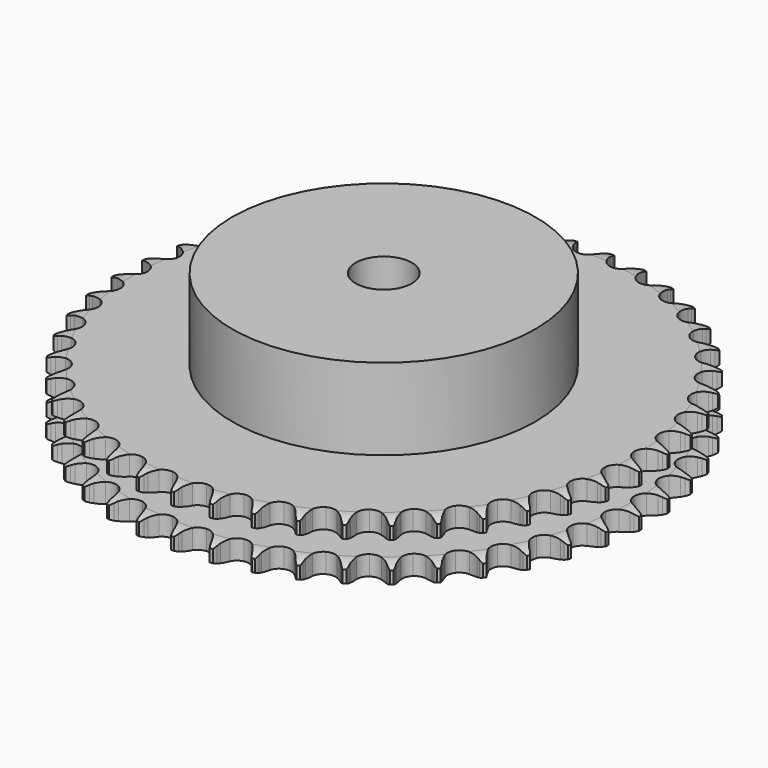
from build123d import *

# Parameters (mm, degrees)
PAD_DEPTH         = 21
SKETCH001_R       = 54
PAD001_DEPTH      = 50
SKETCH002_R       = 10
POCKET_DEPTH      = 0.001
POCKET_DEPTH_BACK = 50.001


with BuildPart() as part:
    # Sprocket → Pad (new body)
    with BuildSketch(Plane.XY):
        with BuildLine():
            ThreePointArc((-6.615982, 94.612948), (-5.918662, 93.611701), (-5.409379, 92.502926))
            Line((-5.409379, 92.502926), (-4.994949, 91.337641))
            ThreePointArc((-4.994949, 91.337641), (-4.340108, 89.850575), (-3.47559, 88.474788))
            ThreePointArc((-3.47559, 88.474788), (-1.947495, 87.18116), (0, 86.716603))
            ThreePointArc((0, 86.716603), (1.947495, 87.18116), (3.47559, 88.474788))
            ThreePointArc((3.47559, 88.474788), (4.340108, 89.850575), (4.994949, 91.337641))
            Line((4.994949, 91.337641), (5.409379, 92.502926))
            ThreePointArc((5.409379, 92.502926), (5.918662, 93.611701), (6.615982, 94.612948))
            ThreePointArc((6.615982, 94.612948), (7.167169, 93.524397), (7.517184, 92.355534))
            Line((7.517184, 92.355534), (7.765405, 91.143912))
            ThreePointArc((7.765405, 91.143912), (8.206913, 89.580182), (8.871545, 88.097466))
            ThreePointArc((8.871545, 88.097466), (10.20473, 86.603758), (12.068618, 85.872683))
            ThreePointArc((12.068618, 85.872683), (14.061814, 86.06168), (15.755077, 87.130049))
            Line((15.755077, 87.130049), (17.658081, 89.753587))
            ThreePointArc((17.658081, 89.753587), (17.929118, 90.309685), (18.230654, 90.849854))
            ThreePointArc((18.230654, 90.849854), (18.889293, 91.87696), (19.719173, 92.771414))
            ThreePointArc((19.719173, 92.771414), (20.113499, 91.616747), (20.297433, 90.410547))
            Line((20.297433, 90.410547), (20.374613, 89.17617))
            ThreePointArc((20.374613, 89.17617), (20.594196, 87.566212), (21.046005, 86.005428))
            ThreePointArc((21.046005, 86.005428), (22.158332, 84.340712), (23.902335, 83.357348))
            ThreePointArc((23.902335, 83.357348), (25.902437, 83.267107), (27.727909, 84.089423))
            Line((27.727909, 84.089423), (29.977518, 86.422581))
            ThreePointArc((29.977518, 86.422581), (30.323312, 86.935547), (30.697091, 87.428493))
            ThreePointArc((30.697091, 87.428493), (31.492265, 88.353938), (32.438553, 89.124191))
            ThreePointArc((32.438553, 89.124191), (32.668342, 87.925881), (32.682616, 86.705821))
            Line((32.682616, 86.705821), (32.587253, 85.472715))
            ThreePointArc((32.587253, 85.472715), (32.580636, 83.847866), (32.810829, 82.239391))
            ThreePointArc((32.810829, 82.239391), (33.680647, 80.43607), (35.27082, 79.219558))
            ThreePointArc((35.27082, 79.219558), (37.238897, 78.851835), (39.161048, 79.412091))
            Line((39.161048, 79.412091), (41.713478, 81.409458))
            ThreePointArc((41.713478, 81.409458), (42.127297, 81.869307), (42.566043, 82.305436))
            ThreePointArc((42.566043, 82.305436), (43.482276, 83.111207), (44.526553, 83.742266))
            ThreePointArc((44.526553, 83.742266), (44.587334, 82.523638), (44.431669, 81.313465))
            Line((44.431669, 81.313465), (44.165619, 80.105632))
            ThreePointArc((44.165619, 80.105632), (43.932931, 78.497516), (43.937027, 76.872658))
            ThreePointArc((43.937027, 76.872658), (44.547407, 74.965832), (45.952798, 73.53985))
            ThreePointArc((45.952798, 73.53985), (47.850545, 72.901802), (49.831962, 73.189094))
            Line((49.831962, 73.189094), (52.637532, 74.811793))
            ThreePointArc((52.637532, 74.811793), (53.111322, 75.209574), (53.606496, 75.580397))
            ThreePointArc((53.606496, 75.580397), (54.625954, 76.250812), (55.747894, 76.730394))
            ThreePointArc((55.747894, 76.730394), (55.638483, 75.515166), (55.31591, 74.338435))
            Line((55.31591, 74.338435), (54.884351, 73.179383))
            ThreePointArc((54.884351, 73.179383), (54.430121, 71.619301), (54.208041, 70.009686))
            ThreePointArc((54.208041, 70.009686), (54.547102, 68.036469), (55.740358, 66.428772))
            ThreePointArc((55.740358, 66.428772), (57.530837, 65.532818), (59.532954, 65.541554))
            Line((59.532954, 65.541554), (62.537056, 66.758001))
            ThreePointArc((62.537056, 66.758001), (63.061596, 67.085972), (63.60356, 67.384271))
            ThreePointArc((63.60356, 67.384271), (64.7064, 67.906281), (65.884167, 68.225052))
            ThreePointArc((65.884167, 68.225052), (65.606693, 67.036877), (65.12349, 65.916491))
            Line((65.12349, 65.916491), (64.534822, 64.828781))
            ThreePointArc((64.534822, 64.828781), (63.867891, 63.347099), (63.423957, 61.784056))
            ThreePointArc((63.423957, 61.784056), (63.4851, 59.782853), (64.442995, 58.024733))
            ThreePointArc((64.442995, 58.024733), (66.091356, 56.888312), (68.075205, 56.618322))
            Line((68.075205, 56.618322), (71.219368, 57.404841))
            ThreePointArc((71.219368, 57.404841), (71.784448, 57.656618), (72.362652, 57.876587))
            ThreePointArc((72.362652, 57.876587), (73.527409, 58.240031), (74.738078, 58.391786))
            ThreePointArc((74.738078, 58.391786), (74.297943, 57.253792), (73.663515, 56.211558))
            Line((73.663515, 56.211558), (72.929196, 55.216361))
            ThreePointArc((72.929196, 55.216361), (72.062545, 53.841916), (71.405398, 52.355869))
            ThreePointArc((71.405398, 52.355869), (71.187432, 50.365632), (71.891322, 48.491309))
            ThreePointArc((71.891322, 48.491309), (73.365483, 47.13654), (75.292449, 46.593079))
            Line((75.292449, 46.593079), (78.515476, 46.93436))
            ThreePointArc((78.515476, 46.93436), (79.110097, 47.105043), (79.713288, 47.242402))
            ThreePointArc((79.713288, 47.242402), (80.917291, 47.440206), (82.137298, 47.421991))
            ThreePointArc((82.137298, 47.421991), (81.543069, 46.356327), (80.769764, 45.412532))
            Line((80.769764, 45.412532), (79.904086, 44.529216))
            ThreePointArc((79.904086, 44.529216), (78.854584, 43.288763), (77.997014, 41.908634))
            ThreePointArc((77.997014, 41.908634), (77.504182, 39.968102), (77.940366, 38.014057))
            ThreePointArc((77.940366, 38.014057), (79.211633, 36.467308), (81.044211, 35.660955))
            Line((81.044211, 35.660955), (84.283369, 35.550356))
            ThreePointArc((84.283369, 35.550356), (84.895958, 35.636623), (85.512395, 35.688696))
            ThreePointArc((85.512395, 35.688696), (86.73221, 35.717011), (87.93781, 35.529181))
            ThreePointArc((87.93781, 35.529181), (87.201051, 34.556589), (86.303921, 33.729601))
            Line((86.303921, 33.729601), (85.323734, 32.975362))
            ThreePointArc((85.323734, 32.975362), (84.111808, 31.893042), (83.070507, 30.645696))
            ThreePointArc((83.070507, 30.645696), (82.312401, 28.792638), (82.47239, 26.796904))
            ThreePointArc((82.47239, 26.796904), (83.516019, 25.088282), (85.21854, 24.03473))
            Line((85.21854, 24.03473), (88.410782, 23.474405))
            ThreePointArc((88.410782, 23.474405), (89.029415, 23.474576), (89.647101, 23.440351))
            ThreePointArc((89.647101, 23.440351), (90.858985, 23.298624), (92.026711, 22.944836))
            ThreePointArc((92.026711, 22.944836), (91.161764, 22.084245), (90.15827, 21.390163))
            Line((90.15827, 21.390163), (89.082653, 20.779679))
            ThreePointArc((89.082653, 20.779679), (87.731891, 19.87656), (86.527128, 18.786274))
            ThreePointArc((86.527128, 18.786274), (85.518503, 17.056758), (85.399183, 15.05818))
            ThreePointArc((85.399183, 15.05818), (86.194861, 13.220942), (87.734187, 11.940697))
            Line((87.734187, 11.940697), (90.81738, 10.941551))
            ThreePointArc((90.81738, 10.941551), (91.430017, 10.855623), (92.036928, 10.735766))
            ThreePointArc((92.036928, 10.735766), (93.217294, 10.426757), (94.324418, 9.913896))
            ThreePointArc((94.324418, 9.913896), (93.348117, 9.182058), (92.257792, 8.634389))
            Line((92.257792, 8.634389), (91.107679, 8.179543))
            ThreePointArc((91.107679, 8.179543), (89.644373, 7.473204), (88.299596, 6.561199))
            ThreePointArc((88.299596, 6.561199), (87.060085, 4.988887), (86.663777, 3.026366))
            ThreePointArc((86.663777, 3.026366), (87.196018, 1.09627), (88.542188, -0.385747))
            Line((88.542188, -0.385747), (91.456321, -1.804268))
            ThreePointArc((91.456321, -1.804268), (92.051037, -1.974622), (92.635361, -2.177778))
            ThreePointArc((92.635361, -2.177778), (93.761233, -2.648055), (94.786206, -3.310007))
            ThreePointArc((94.786206, -3.310007), (93.717555, -3.898848), (92.56162, -4.289443))
            Line((92.56162, -4.289443), (91.359398, -4.579798))
            ThreePointArc((91.359398, -4.579798), (89.812029, -5.07561), (88.353412, -5.791583))
            ThreePointArc((88.353412, -5.791583), (86.907141, -7.176086), (86.24156, -9.064353))
            ThreePointArc((86.24156, -9.064353), (86.500004, -11.049739), (87.626816, -12.704684))
            Line((87.626816, -12.704684), (90.315169, -14.514969))
            ThreePointArc((90.315169, -14.514969), (90.880388, -14.766433), (91.430752, -15.048935))
            ThreePointArc((91.430752, -15.048935), (92.480218, -15.671326), (93.40309, -16.469485))
            ThreePointArc((93.40309, -16.469485), (92.262887, -16.903868), (91.063841, -17.129786))
            Line((91.063841, -17.129786), (89.83291, -17.249998))
            ThreePointArc((89.83291, -17.249998), (88.231596, -17.525634), (86.68753, -18.031638))
            ThreePointArc((86.68753, -18.031638), (85.062649, -19.201386), (84.140749, -20.978645))
            ThreePointArc((84.140749, -20.978645), (84.120365, -22.980677), (85.005888, -24.776339))
            Line((85.005888, -24.776339), (87.416135, -26.943152))
            ThreePointArc((87.416135, -26.943152), (87.940856, -27.270833), (88.446547, -27.627181))
            ThreePointArc((88.446547, -27.627181), (89.399179, -28.389573), (90.201988, -29.308402))
            ThreePointArc((90.201988, -29.308402), (89.012427, -29.579873), (87.793609, -29.636717))
            Line((87.793609, -29.636717), (86.557926, -29.584447))
            ThreePointArc((86.557926, -29.584447), (84.933836, -29.63454), (83.334374, -29.920728))
            ThreePointArc((83.334374, -29.920728), (81.562508, -30.852952), (80.402234, -32.484611))
            ThreePointArc((80.402234, -32.484611), (80.10342, -34.464323), (80.730416, -36.36575))
            Line((80.730416, -36.36575), (82.815645, -38.846918))
            ThreePointArc((82.815645, -38.846918), (83.289655, -39.244437), (83.740831, -39.667695))
            ThreePointArc((83.740831, -39.667695), (84.578088, -40.555248), (85.245207, -41.576865))
            ThreePointArc((85.245207, -41.576865), (84.029442, -41.680139), (82.814574, -41.566804))
            Line((82.814574, -41.566804), (81.598191, -41.343068))
            ThreePointArc((81.598191, -41.343068), (79.982935, -41.166644), (78.359209, -41.227445))
            ThreePointArc((78.359209, -41.227445), (76.474847, -41.904), (75.098781, -43.358301))
            ThreePointArc((75.098781, -43.358301), (74.527352, -45.27716), (74.883619, -47.247344))
            Line((74.883619, -47.247344), (76.603243, -49.994573))
            ThreePointArc((76.603243, -49.994573), (77.017316, -50.454192), (77.405195, -50.936123))
            ThreePointArc((77.405195, -50.936123), (78.11078, -51.931562), (78.629225, -53.036082))
            ThreePointArc((78.629225, -53.036082), (77.410919, -52.969149), (76.223647, -52.687839))
            Line((76.223647, -52.687839), (75.05024, -52.296993))
            ThreePointArc((75.05024, -52.296993), (73.475257, -51.897486), (71.858872, -51.731716))
            ThreePointArc((71.858872, -51.731716), (69.898689, -52.139435), (68.333615, -53.388072))
            ThreePointArc((68.333615, -53.388072), (67.500694, -55.208728), (67.579298, -57.209321))
            Line((67.579298, -57.209321), (68.899846, -60.16914))
            ThreePointArc((68.899846, -60.16914), (69.245923, -60.681914), (69.562955, -61.213137))
            ThreePointArc((69.562955, -61.213137), (70.123135, -62.297087), (70.482815, -63.463012))
            ThreePointArc((70.482815, -63.463012), (69.285681, -63.227174), (68.149114, -62.783366))
            Line((68.149114, -62.783366), (67.041522, -62.233017))
            ThreePointArc((67.041522, -62.233017), (65.537466, -61.618203), (63.959883, -61.229089))
            ThreePointArc((63.959883, -61.229089), (61.962033, -61.360035), (60.238414, -62.378704))
            ThreePointArc((60.238414, -62.378704), (59.160212, -64.065722), (58.959622, -66.057784))
            Line((58.959622, -66.057784), (59.855391, -69.172583))
            ThreePointArc((59.855391, -69.172583), (60.126736, -69.728532), (60.366751, -70.298707))
            ThreePointArc((60.366751, -70.298707), (60.770622, -71.45007), (60.964537, -72.654706))
            ThreePointArc((60.964537, -72.654706), (59.811875, -72.254555), (58.748135, -71.656886))
            Line((58.748135, -71.656886), (57.727916, -70.957746))
            ThreePointArc((57.727916, -70.957746), (56.324064, -70.139591), (54.815987, -69.534707))
            ThreePointArc((54.815987, -69.534707), (52.819357, -69.386331), (50.97074, -70.155205))
            ThreePointArc((50.97074, -70.155205), (49.668244, -71.675749), (49.192364, -73.620508))
            Line((49.192364, -73.620508), (49.64592, -76.829661))
            ThreePointArc((49.64592, -76.829661), (49.837251, -77.417963), (49.995576, -78.015993))
            ThreePointArc((49.995576, -78.015993), (50.235279, -79.212359), (50.259654, -80.432259))
            ThreePointArc((50.259654, -80.432259), (49.1739, -79.875582), (48.203692, -79.135687))
            Line((48.203692, -79.135687), (47.290703, -78.301364))
            ThreePointArc((47.290703, -78.301364), (46.014378, -77.295792), (44.605161, -76.486911))
            ThreePointArc((44.605161, -76.486911), (42.648611, -76.062102), (40.710979, -76.566216))
            ThreePointArc((40.710979, -76.566216), (39.20954, -77.890689), (38.467633, -79.750292))
            Line((38.467633, -79.750292), (38.470147, -82.991336))
            ThreePointArc((38.470147, -82.991336), (38.57774, -83.600541), (38.651295, -84.214786))
            ThreePointArc((38.651295, -84.214786), (38.722163, -85.432869), (38.576523, -86.64429))
            ThreePointArc((38.576523, -86.64429), (37.57881, -85.941923), (36.721018, -85.074201))
            Line((36.721018, -85.074201), (35.933029, -84.120934))
            ThreePointArc((35.933029, -84.120934), (34.809074, -82.947518), (33.526146, -81.950384))
            ThreePointArc((33.526146, -81.950384), (31.647759, -81.25741), (29.658825, -81.486952))
            ThreePointArc((29.658825, -81.486952), (27.987666, -82.589575), (26.994173, -84.327828))
            Line((26.994173, -84.327828), (26.545597, -87.53768))
            ThreePointArc((26.545597, -87.53768), (26.567358, -88.15593), (26.554711, -88.774434))
            ThreePointArc((26.554711, -88.774434), (26.455364, -89.990526), (26.142545, -91.169888))
            ThreePointArc((26.142545, -91.169888), (25.252292, -90.335502), (24.523611, -89.356842))
            Line((24.523611, -89.356842), (23.87596, -88.303186))
            ThreePointArc((23.87596, -88.303186), (22.926251, -86.984766), (21.794583, -85.818786))
            ThreePointArc((21.794583, -85.818786), (20.03092, -84.871136), (18.029395, -84.821637))
            ThreePointArc((18.029395, -84.821637), (16.221045, -85.680949), (14.995303, -87.264018))
            Line((14.995303, -87.264018), (14.104366, -90.380202))
            ThreePointArc((14.104366, -90.380202), (14.039872, -90.995464), (13.941269, -91.606189))
            ThreePointArc((13.941269, -91.606189), (13.673642, -92.79662), (13.199731, -93.920968))
            ThreePointArc((13.199731, -93.920968), (12.434267, -92.970802), (11.84888, -91.900255))
            Line((11.84888, -91.900255), (11.354173, -90.766717))
            ThreePointArc((11.354173, -90.766717), (10.597195, -89.328953), (9.638813, -88.016823))
            ThreePointArc((9.638813, -88.016823), (8.024201, -86.832941), (6.049044, -86.505365))
            ThreePointArc((6.049044, -86.505365), (4.138699, -87.104641), (2.704565, -88.501713))
            Line((2.704565, -88.501713), (1.388611, -91.463577))
            ThreePointArc((1.388611, -91.463577), (1.239116, -92.063875), (1.056476, -92.654933))
            ThreePointArc((1.056476, -92.654933), (0.625778, -93.796532), (0, -94.843983))
            ThreePointArc((0, -94.843983), (-0.625778, -93.796532), (-1.056476, -92.654933))
            Line((-1.056476, -92.654933), (-1.388611, -91.463577))
            ThreePointArc((-1.388611, -91.463577), (-1.938124, -89.934454), (-2.704565, -88.501713))
            ThreePointArc((-2.704565, -88.501713), (-4.138699, -87.104641), (-6.049044, -86.505365))
            ThreePointArc((-6.049044, -86.505365), (-8.024201, -86.832941), (-9.638813, -88.016823))
            Line((-9.638813, -88.016823), (-11.354173, -90.766717))
            ThreePointArc((-11.354173, -90.766717), (-11.585758, -91.340367), (-11.84888, -91.900255))
            ThreePointArc((-11.84888, -91.900255), (-12.434267, -92.970802), (-13.199731, -93.920968))
            ThreePointArc((-13.199731, -93.920968), (-13.673642, -92.79662), (-13.941269, -91.606189))
            Line((-13.941269, -91.606189), (-14.104366, -90.380202))
            ThreePointArc((-14.104366, -90.380202), (-14.435719, -88.789484), (-14.995303, -87.264018))
            ThreePointArc((-14.995303, -87.264018), (-16.221045, -85.680949), (-18.029395, -84.821637))
            ThreePointArc((-18.029395, -84.821637), (-20.03092, -84.871136), (-21.794583, -85.818786))
            Line((-21.794583, -85.818786), (-23.87596, -88.303186))
            ThreePointArc((-23.87596, -88.303186), (-24.185129, -88.839023), (-24.523611, -89.356842))
            ThreePointArc((-24.523611, -89.356842), (-25.252292, -90.335502), (-26.142545, -91.169888))
            ThreePointArc((-26.142545, -91.169888), (-26.455364, -89.990526), (-26.554711, -88.774434))
            Line((-26.554711, -88.774434), (-26.545597, -87.53768))
            ThreePointArc((-26.545597, -87.53768), (-26.652339, -85.916327), (-26.994173, -84.327828))
            ThreePointArc((-26.994173, -84.327828), (-27.987666, -82.589575), (-29.658825, -81.486952))
            ThreePointArc((-29.658825, -81.486952), (-31.647759, -81.25741), (-33.526146, -81.950384))
            Line((-33.526146, -81.950384), (-35.933029, -84.120934))
            ThreePointArc((-35.933029, -84.120934), (-36.313763, -84.608529), (-36.721018, -85.074201))
            ThreePointArc((-36.721018, -85.074201), (-37.57881, -85.941923), (-38.576523, -86.64429))
            ThreePointArc((-38.576523, -86.64429), (-38.722163, -85.432869), (-38.651295, -84.214786))
            Line((-38.651295, -84.214786), (-38.470147, -82.991336))
            ThreePointArc((-38.470147, -82.991336), (-38.350202, -81.370906), (-38.467633, -79.750292))
            ThreePointArc((-38.467633, -79.750292), (-39.20954, -77.890689), (-40.710979, -76.566216))
            ThreePointArc((-40.710979, -76.566216), (-42.648611, -76.062102), (-44.605161, -76.486911))
            Line((-44.605161, -76.486911), (-47.290703, -78.301364))
            ThreePointArc((-47.290703, -78.301364), (-47.735591, -78.731225), (-48.203692, -79.135687))
            ThreePointArc((-48.203692, -79.135687), (-49.1739, -79.875582), (-50.259654, -80.432259))
            ThreePointArc((-50.259654, -80.432259), (-50.235279, -79.212359), (-49.995576, -78.015993))
            Line((-49.995576, -78.015993), (-49.64592, -76.829661))
            ThreePointArc((-49.64592, -76.829661), (-49.301622, -75.241694), (-49.192364, -73.620508))
            ThreePointArc((-49.192364, -73.620508), (-49.668244, -71.675749), (-50.97074, -70.155205))
            ThreePointArc((-50.97074, -70.155205), (-52.819357, -69.386331), (-54.815987, -69.534707))
            Line((-54.815987, -69.534707), (-57.727916, -70.957746))
            ThreePointArc((-57.727916, -70.957746), (-58.228301, -71.321508), (-58.748135, -71.656886))
            ThreePointArc((-58.748135, -71.656886), (-59.811875, -72.254555), (-60.964537, -72.654706))
            ThreePointArc((-60.964537, -72.654706), (-60.770622, -71.45007), (-60.366751, -70.298707))
            Line((-60.366751, -70.298707), (-59.855391, -69.172583))
            ThreePointArc((-59.855391, -69.172583), (-59.293442, -67.647987), (-58.959622, -66.057784))
            ThreePointArc((-58.959622, -66.057784), (-59.160212, -64.065722), (-60.238414, -62.378704))
            ThreePointArc((-60.238414, -62.378704), (-61.962033, -61.360035), (-63.959883, -61.229089))
            Line((-63.959883, -61.229089), (-67.041522, -62.233017))
            ThreePointArc((-67.041522, -62.233017), (-67.587662, -62.523599), (-68.149114, -62.783366))
            ThreePointArc((-68.149114, -62.783366), (-69.285681, -63.227174), (-70.482815, -63.463012))
            ThreePointArc((-70.482815, -63.463012), (-70.123135, -62.297087), (-69.562955, -61.213137))
            Line((-69.562955, -61.213137), (-68.899846, -60.16914))
            ThreePointArc((-68.899846, -60.16914), (-68.131182, -58.737589), (-67.579298, -57.209321))
            ThreePointArc((-67.579298, -57.209321), (-67.500694, -55.208728), (-68.333615, -53.388072))
            ThreePointArc((-68.333615, -53.388072), (-69.898689, -52.139435), (-71.858872, -51.731716))
            Line((-71.858872, -51.731716), (-75.05024, -52.296993))
            ThreePointArc((-75.05024, -52.296993), (-75.631507, -52.508739), (-76.223647, -52.687839))
            ThreePointArc((-76.223647, -52.687839), (-77.410919, -52.969149), (-78.629225, -53.036082))
            ThreePointArc((-78.629225, -53.036082), (-78.11078, -51.931562), (-77.405195, -50.936123))
            Line((-77.405195, -50.936123), (-76.603243, -49.994573))
            ThreePointArc((-76.603243, -49.994573), (-75.642827, -48.683931), (-74.883619, -47.247344))
            ThreePointArc((-74.883619, -47.247344), (-74.527352, -45.27716), (-75.098781, -43.358301))
            ThreePointArc((-75.098781, -43.358301), (-76.474847, -41.904), (-78.359209, -41.227445))
            Line((-78.359209, -41.227445), (-81.598191, -41.343068))
            ThreePointArc((-81.598191, -41.343068), (-82.20327, -41.471856), (-82.814574, -41.566804))
            ThreePointArc((-82.814574, -41.566804), (-84.029442, -41.680139), (-85.245207, -41.576865))
            ThreePointArc((-85.245207, -41.576865), (-84.578088, -40.555248), (-83.740831, -39.667695))
            Line((-83.740831, -39.667695), (-82.815645, -38.846918))
            ThreePointArc((-82.815645, -38.846918), (-81.68217, -37.682696), (-80.730416, -36.36575))
            ThreePointArc((-80.730416, -36.36575), (-80.10342, -34.464323), (-80.402234, -32.484611))
            ThreePointArc((-80.402234, -32.484611), (-81.562508, -30.852952), (-83.334374, -29.920728))
            Line((-83.334374, -29.920728), (-86.557926, -29.584447))
            ThreePointArc((-86.557926, -29.584447), (-87.175041, -29.627771), (-87.793609, -29.636717))
            ThreePointArc((-87.793609, -29.636717), (-89.012427, -29.579873), (-90.201988, -29.308402))
            ThreePointArc((-90.201988, -29.308402), (-89.399179, -28.389573), (-88.446547, -27.627181))
            Line((-88.446547, -27.627181), (-87.416135, -26.943152))
            ThreePointArc((-87.416135, -26.943152), (-86.131662, -25.948009), (-85.005888, -24.776339))
            ThreePointArc((-85.005888, -24.776339), (-84.120365, -22.980677), (-84.140749, -20.978645))
            ThreePointArc((-84.140749, -20.978645), (-85.062649, -19.201386), (-86.68753, -18.031638))
            Line((-86.68753, -18.031638), (-89.83291, -17.249998))
            ThreePointArc((-89.83291, -17.249998), (-90.450048, -17.207015), (-91.063841, -17.129786))
            ThreePointArc((-91.063841, -17.129786), (-92.262887, -16.903868), (-93.40309, -16.469485))
            ThreePointArc((-93.40309, -16.469485), (-92.480218, -15.671326), (-91.430752, -15.048935))
            Line((-91.430752, -15.048935), (-90.315169, -14.514969))
            ThreePointArc((-90.315169, -14.514969), (-88.9047, -13.708275), (-87.626816, -12.704684))
            ThreePointArc((-87.626816, -12.704684), (-86.500004, -11.049739), (-86.24156, -9.064353))
            ThreePointArc((-86.24156, -9.064353), (-86.907141, -7.176086), (-88.353412, -5.791583))
            Line((-88.353412, -5.791583), (-91.359398, -4.579798))
            ThreePointArc((-91.359398, -4.579798), (-91.964548, -4.451344), (-92.56162, -4.289443))
            ThreePointArc((-92.56162, -4.289443), (-93.717555, -3.898848), (-94.786206, -3.310007))
            ThreePointArc((-94.786206, -3.310007), (-93.761233, -2.648055), (-92.635361, -2.177778))
            Line((-92.635361, -2.177778), (-91.456321, -1.804268))
            ThreePointArc((-91.456321, -1.804268), (-89.947308, -1.201724), (-88.542188, -0.385747))
            ThreePointArc((-88.542188, -0.385747), (-87.196018, 1.09627), (-86.663777, 3.026366))
            ThreePointArc((-86.663777, 3.026366), (-87.060085, 4.988887), (-88.299596, 6.561199))
            Line((-88.299596, 6.561199), (-91.107679, 8.179543))
            ThreePointArc((-91.107679, 8.179543), (-91.689063, 8.390968), (-92.257792, 8.634389))
            ThreePointArc((-92.257792, 8.634389), (-93.348117, 9.182058), (-94.324418, 9.913896))
            ThreePointArc((-94.324418, 9.913896), (-93.217294, 10.426757), (-92.036928, 10.735766))
            Line((-92.036928, 10.735766), (-90.81738, 10.941551))
            ThreePointArc((-90.81738, 10.941551), (-89.239195, 11.328217), (-87.734187, 11.940697))
            ThreePointArc((-87.734187, 11.940697), (-86.194861, 13.220942), (-85.399183, 15.05818))
            ThreePointArc((-85.399183, 15.05818), (-85.518503, 17.056758), (-86.527128, 18.786274))
            Line((-86.527128, 18.786274), (-89.082653, 20.779679))
            ThreePointArc((-89.082653, 20.779679), (-89.628954, 21.069959), (-90.15827, 21.390163))
            ThreePointArc((-90.15827, 21.390163), (-91.161764, 22.084245), (-92.026711, 22.944836))
            ThreePointArc((-92.026711, 22.944836), (-90.858985, 23.298624), (-89.647101, 23.440351))
            Line((-89.647101, 23.440351), (-88.410782, 23.474405))
            ThreePointArc((-88.410782, 23.474405), (-86.794142, 23.637667), (-85.21854, 24.03473))
            ThreePointArc((-85.21854, 24.03473), (-83.516019, 25.088282), (-82.47239, 26.796904))
            ThreePointArc((-82.47239, 26.796904), (-82.312401, 28.792638), (-83.070507, 30.645696))
            Line((-83.070507, 30.645696), (-85.323734, 32.975362))
            ThreePointArc((-85.323734, 32.975362), (-85.82432, 33.338847), (-86.303921, 33.729601))
            ThreePointArc((-86.303921, 33.729601), (-87.201051, 34.556589), (-87.93781, 35.529181))
            ThreePointArc((-87.93781, 35.529181), (-86.73221, 35.717011), (-85.512395, 35.688696))
            Line((-85.512395, 35.688696), (-84.283369, 35.550356))
            ThreePointArc((-84.283369, 35.550356), (-82.65974, 35.487037), (-81.044211, 35.660955))
            ThreePointArc((-81.044211, 35.660955), (-79.211633, 36.467308), (-77.940366, 38.014057))
            ThreePointArc((-77.940366, 38.014057), (-77.504182, 39.968102), (-77.997014, 41.908634))
            Line((-77.997014, 41.908634), (-79.904086, 44.529216))
            ThreePointArc((-79.904086, 44.529216), (-80.349213, 44.958832), (-80.769764, 45.412532))
            ThreePointArc((-80.769764, 45.412532), (-81.543069, 46.356327), (-82.137298, 47.421991))
            ThreePointArc((-82.137298, 47.421991), (-80.917291, 47.440206), (-79.713288, 47.242402))
            Line((-79.713288, 47.242402), (-78.515476, 46.93436))
            ThreePointArc((-78.515476, 46.93436), (-76.91646, 46.645692), (-75.292449, 46.593079))
            ThreePointArc((-75.292449, 46.593079), (-73.365483, 47.13654), (-71.891322, 48.491309))
            ThreePointArc((-71.891322, 48.491309), (-71.187432, 50.365632), (-71.405398, 52.355869))
            Line((-71.405398, 52.355869), (-72.929196, 55.216361))
            ThreePointArc((-72.929196, 55.216361), (-73.310199, 55.703745), (-73.663515, 56.211558))
            ThreePointArc((-73.663515, 56.211558), (-74.297943, 57.253792), (-74.738078, 58.391786))
            ThreePointArc((-74.738078, 58.391786), (-73.527409, 58.240031), (-72.362652, 57.876587))
            Line((-72.362652, 57.876587), (-71.219368, 57.404841))
            ThreePointArc((-71.219368, 57.404841), (-69.676089, 56.896441), (-68.075205, 56.618322))
            ThreePointArc((-68.075205, 56.618322), (-66.091356, 56.888312), (-64.442995, 58.024733))
            ThreePointArc((-64.442995, 58.024733), (-63.4851, 59.782853), (-63.423957, 61.784056))
            Line((-63.423957, 61.784056), (-64.534822, 64.828781))
            ThreePointArc((-64.534822, 64.828781), (-64.844287, 65.364447), (-65.12349, 65.916491))
            ThreePointArc((-65.12349, 65.916491), (-65.606693, 67.036877), (-65.884167, 68.225052))
            ThreePointArc((-65.884167, 68.225052), (-64.7064, 67.906281), (-63.60356, 67.384271))
            Line((-63.60356, 67.384271), (-62.537056, 66.758001))
            ThreePointArc((-62.537056, 66.758001), (-61.079552, 66.039766), (-59.532954, 65.541554))
            ThreePointArc((-59.532954, 65.541554), (-57.530837, 65.532818), (-55.740358, 66.428772))
            ThreePointArc((-55.740358, 66.428772), (-54.547102, 68.036469), (-54.208041, 70.009686))
            Line((-54.208041, 70.009686), (-54.884351, 73.179383))
            ThreePointArc((-54.884351, 73.179383), (-55.116254, 73.752906), (-55.31591, 74.338435))
            ThreePointArc((-55.31591, 74.338435), (-55.638483, 75.515166), (-55.747894, 76.730394))
            ThreePointArc((-55.747894, 76.730394), (-54.625954, 76.250812), (-53.606496, 75.580397))
            Line((-53.606496, 75.580397), (-52.637532, 74.811793))
            ThreePointArc((-52.637532, 74.811793), (-51.294171, 73.897703), (-49.831962, 73.189094))
            ThreePointArc((-49.831962, 73.189094), (-47.850545, 72.901802), (-45.952798, 73.53985))
            ThreePointArc((-45.952798, 73.53985), (-44.547407, 74.965832), (-43.937027, 76.872658))
            Line((-43.937027, 76.872658), (-44.165619, 80.105632))
            ThreePointArc((-44.165619, 80.105632), (-44.315446, 80.705847), (-44.431669, 81.313465))
            ThreePointArc((-44.431669, 81.313465), (-44.587334, 82.523638), (-44.526553, 83.742266))
            ThreePointArc((-44.526553, 83.742266), (-43.482276, 83.111207), (-42.566043, 82.305436))
            Line((-42.566043, 82.305436), (-41.713478, 81.409458))
            ThreePointArc((-41.713478, 81.409458), (-40.510407, 80.317304), (-39.161048, 79.412091))
            ThreePointArc((-39.161048, 79.412091), (-37.238897, 78.851835), (-35.27082, 79.219558))
            ThreePointArc((-35.27082, 79.219558), (-33.680647, 80.43607), (-32.810829, 82.239391))
            Line((-32.810829, 82.239391), (-32.587253, 85.472715))
            ThreePointArc((-32.587253, 85.472715), (-32.652088, 86.087942), (-32.682616, 86.705821))
            ThreePointArc((-32.682616, 86.705821), (-32.668342, 87.925881), (-32.438553, 89.124191))
            ThreePointArc((-32.438553, 89.124191), (-31.492265, 88.353938), (-30.697091, 87.428493))
            Line((-30.697091, 87.428493), (-29.977518, 86.422581))
            ThreePointArc((-29.977518, 86.422581), (-28.938154, 85.173621), (-27.727909, 84.089423))
            ThreePointArc((-27.727909, 84.089423), (-25.902437, 83.267107), (-23.902335, 83.357348))
            ThreePointArc((-23.902335, 83.357348), (-22.158332, 84.340712), (-21.046005, 86.005428))
            Line((-21.046005, 86.005428), (-20.374613, 89.17617))
            ThreePointArc((-20.374613, 89.17617), (-20.353194, 89.794432), (-20.297433, 90.410547))
            ThreePointArc((-20.297433, 90.410547), (-20.113499, 91.616747), (-19.719173, 92.771414))
            ThreePointArc((-19.719173, 92.771414), (-18.889293, 91.87696), (-18.230654, 90.849854))
            Line((-18.230654, 90.849854), (-17.658081, 89.753587))
            ThreePointArc((-17.658081, 89.753587), (-16.802653, 88.372129), (-15.755077, 87.130049))
            ThreePointArc((-15.755077, 87.130049), (-14.061814, 86.06168), (-12.068618, 85.872683))
            ThreePointArc((-12.068618, 85.872683), (-10.20473, 86.603758), (-8.871545, 88.097466))
            Line((-8.871545, 88.097466), (-7.765405, 91.143912))
            ThreePointArc((-7.765405, 91.143912), (-7.658149, 91.753176), (-7.517184, 92.355534))
            ThreePointArc((-7.517184, 92.355534), (-7.167169, 93.524397), (-6.615982, 94.612948))
        make_face()
    extrude(amount=PAD_DEPTH)

    # Sketch → Groove (revolve, cut)
    with BuildSketch(Plane.XZ):
        with BuildLine():
            ThreePointArc((88.333431, 0), (91.24032, 0.329167), (94, 1.3))
            Line((94, 1.3), (94, 5.7))
            ThreePointArc((94, 5.7), (91.24032, 6.670833), (88.333431, 7))
            Line((54, 7), (88.333431, 7))
            Line((54, 14), (54, 7))
            Line((88.333431, 14), (54, 14))
            ThreePointArc((88.333431, 14), (91.24032, 14.329167), (94, 15.3))
            Line((94, 15.3), (94, 19.7))
            ThreePointArc((94, 19.7), (91.24032, 20.670833), (88.333431, 21))
            Line((88.333431, 21), (98.333431, 21))
            Line((98.333431, 21), (98.333431, 0))
            Line((88.333431, 0), (98.333431, 0))
        make_face()
    revolve(axis=Axis((0, 0, 0), (0, 0, 1)), mode=Mode.SUBTRACT)

    # Sketch001 → Pad001 (join)
    with BuildSketch(Plane.XY):
        Circle(SKETCH001_R)
    extrude(amount=PAD001_DEPTH)

    # Sketch002 → Pocket (cut, two sides)
    with BuildSketch(Plane.XY) as pocket_sk:
        Circle(SKETCH002_R)
    extrude(amount=-POCKET_DEPTH, mode=Mode.SUBTRACT)
    extrude(pocket_sk.sketch, amount=POCKET_DEPTH_BACK, mode=Mode.SUBTRACT)


solid = part.part
